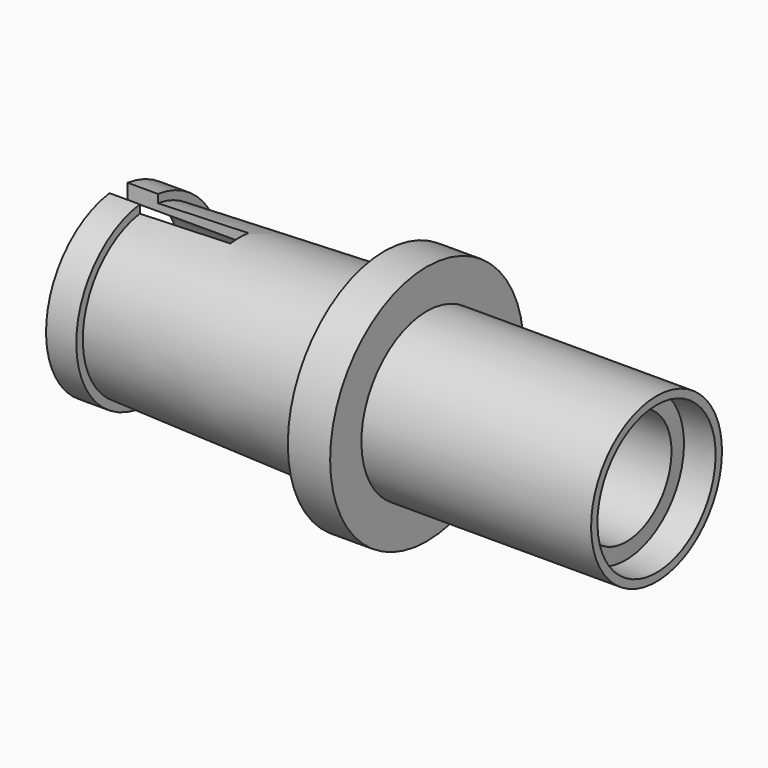
from build123d import *

# Parameters (mm, degrees)
F3_DEPTH = 5.08


with BuildPart() as f1:
    # F0 (on Front) → F1 (revolve)
    with BuildSketch(Plane.XZ):
        Polygon((0, 2.3735397548), (0, 0), (1.778, 0), (1.778, 2.3735397548), (10.16, 2.3735397548), (10.1363584854, 3.0589321379), (11.43, 3.103554234), (11.43, 3.4368946217), (1.778, 3.4368946217), (1.778, 5.08), (0, 5.08), (0, 3.81), (-9.906, 3.468308365), (-9.906, 3.81), (-11.176, 3.81), (-11.176, 3.175), (-4.826, 3.175), (-4.826, 2.3735397548), align=None)
    revolve(axis=Axis((0.889, 0, 0), (-1, 0, 0)))

    # F2 (on face) → F3 (cut)
    with BuildSketch(Plane(origin=(-11.176, 0, 0), x_dir=(0, -1, 0), z_dir=(-1, 0, 0))):
        with BuildLine():
            ThreePointArc((0.4744467442, 3.1393510933), (0, 3.175), (-0.4744467442, 3.1393510933))
            Line((-0.4744467442, 3.1393510933), (-0.4744467442, 1.5797834679))
            Line((-0.4744467442, 1.5797834679), (0.4744467442, 1.5797834679))
            Line((0.4744467442, 1.5797834679), (0.4744467442, 3.1393510933))
        make_face()
        with BuildLine():
            Line((0.4744467442, 4.7702165321), (-0.4744467442, 4.7702165321))
            Line((-0.4744467442, 4.7702165321), (-0.4744467442, 3.7803439376))
            ThreePointArc((-0.4744467442, 3.7803439376), (0, 3.81), (0.4744467442, 3.7803439376))
            Line((0.4744467442, 3.7803439376), (0.4744467442, 4.7702165321))
        make_face()
        with BuildLine():
            ThreePointArc((0.4744467442, 3.7803439376), (0, 3.81), (-0.4744467442, 3.7803439376))
            Line((-0.4744467442, 3.7803439376), (-0.4744467442, 3.1393510933))
            ThreePointArc((-0.4744467442, 3.1393510933), (0, 3.175), (0.4744467442, 3.1393510933))
            Line((0.4744467442, 3.1393510933), (0.4744467442, 3.7803439376))
        make_face()
    extrude(amount=-F3_DEPTH, mode=Mode.SUBTRACT)


solid = f1.part
